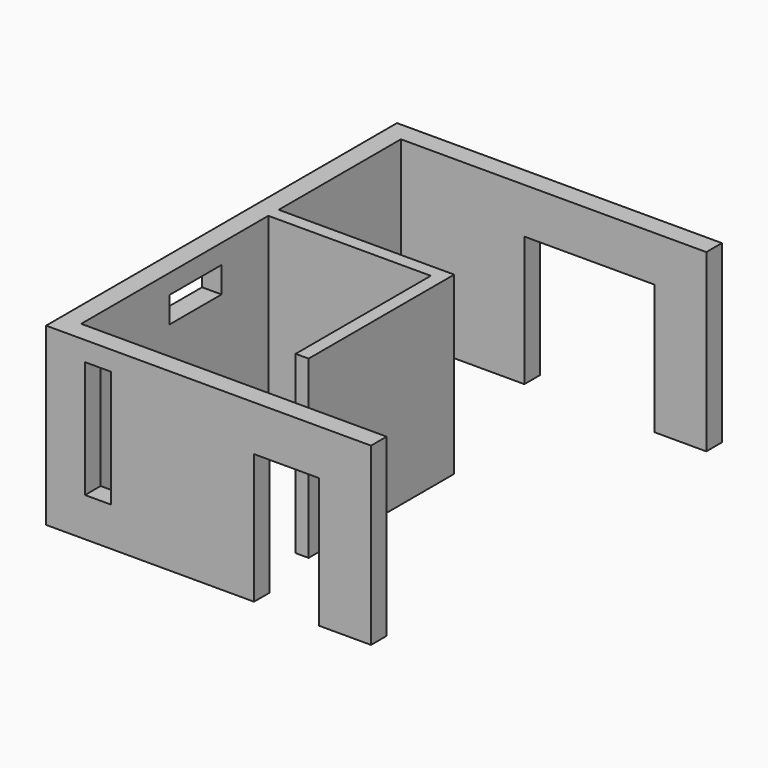
from build123d import *

# Parameters (mm, degrees)
F1_DEPTH = 2700
F2_W     = 1000
F2_H     = 2000
F3_DEPTH = 400
F2_W_2   = 400
F2_H_2   = 1800
F4_DEPTH = 400
F5_W     = 2000
F5_H     = 2000
F6_DEPTH = 400
F7_DEPTH = 2700
F8_W     = 1000
F8_H     = 400
F9_DEPTH = 400


with BuildPart() as f1:
    # F0 (on Top) → F1 (new body)
    with BuildSketch(Plane.XY):
        Polygon((-5000, 0), (0, 0), (0, 300), (-4700, 300), (-4700, 1300), (-4700, 3900), (-4700, 4100), (-4700, 6450), (0, 6450), (0, 6750), (-5000, 6750), align=None)
    extrude(amount=F1_DEPTH)

    # F2 (on face) → F3 (cut)
    with BuildSketch(Plane.XZ):
        with Locations((-1300, 1000)):
            Rectangle(F2_W, F2_H)
    extrude(amount=-F3_DEPTH, mode=Mode.SUBTRACT)

    # F2 (on face) → F4 (cut)
    with BuildSketch(Plane.XZ):
        with Locations((-4200, 1500)):
            Rectangle(F2_W_2, F2_H_2)
    extrude(amount=-F4_DEPTH, mode=Mode.SUBTRACT)

    # F5 (on face) → F6 (cut)
    with BuildSketch(Plane(origin=(0, 6750, 0), x_dir=(-1, 0, 0), z_dir=(0, 1, 0))):
        with Locations((1800, 1000)):
            Rectangle(F5_W, F5_H)
    extrude(amount=-F6_DEPTH, mode=Mode.SUBTRACT)

    # F0 (on Top) → F7 (join)
    with BuildSketch(Plane.XY):
        Polygon((-2000, 4100), (-4700, 4100), (-4700, 3900), (-2200, 3900), (-2200, 1300), (-2000, 1300), align=None)
    extrude(amount=F7_DEPTH)

    # F8 (on face) → F9 (cut)
    with BuildSketch(Plane(origin=(-5000, 0, 0), x_dir=(0, -1, 0), z_dir=(-1, 0, 0))):
        with Locations((-2500, 2200)):
            Rectangle(F8_W, F8_H)
    extrude(amount=-F9_DEPTH, mode=Mode.SUBTRACT)


solid = f1.part
